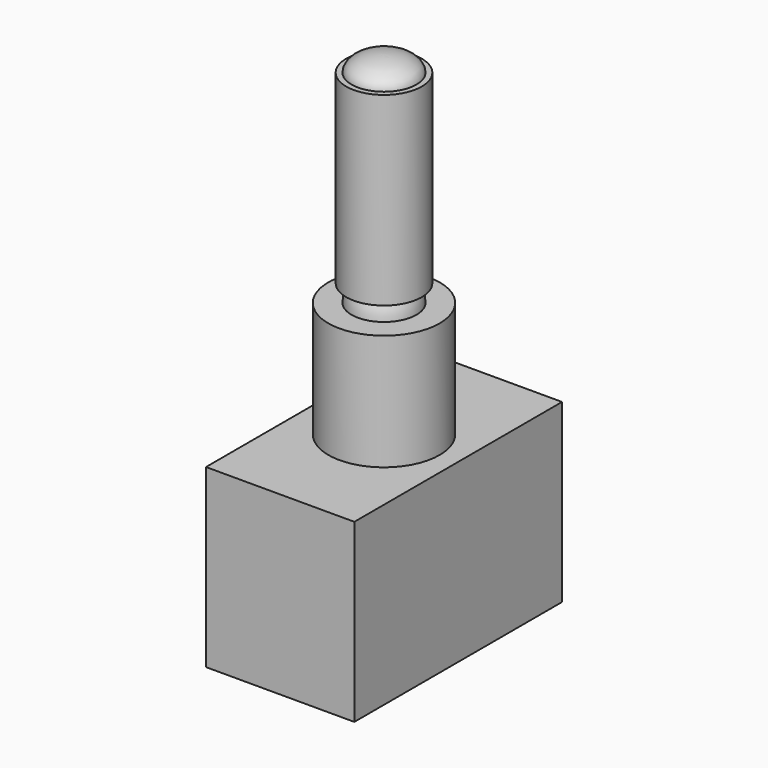
from build123d import *

# Parameters (mm, degrees)
F0_R     = 6
F1_DEPTH = 12.5
F2_W     = 28
F2_H     = 19
F3_DEPTH = 8


with BuildPart() as f1:
    # F0 (on Top) → F1 (new body)
    with BuildSketch(Plane.XY):
        Circle(F0_R)
    extrude(amount=F1_DEPTH)

    # F2 (on Right) → F3 (join, symmetric)
    with BuildSketch(Plane.YZ):
        with Locations((0, -9.5)):
            Rectangle(F2_W, F2_H)
    extrude(amount=F3_DEPTH, both=True)

    # F2 (on Right) → F4 (revolve)
    with BuildSketch(Plane.YZ):
        with BuildLine():
            ThreePointArc((0, 15.9491937459), (1.8805486292, 15.4010638062), (3.1720772546, 13.9283576619))
            Line((3.1720772546, 13.9283576619), (4.0744187722, 14.3593794546))
            Line((4.0744187722, 14.3593794546), (4.0744187722, 34.3593794546))
            Line((4.0744187722, 34.3593794546), (3.5, 34.3593794546))
            add(Edge.make_bspline(
                [(0, 32.6093794546), (3.5, 32.6093794546), (3.5, 34.3593794546)],
                knots=[4.7123889804, 4.7123889804, 4.7123889804, 6.2831853072, 6.2831853072, 6.2831853072], degree=2, weights=[1, 0.7071067812, 1]))
            Line((0, 32.6093794546), (0, 15.9491937459))
        make_face()
        with BuildLine():
            Line((0, 12.4491937459), (3.5, 12.4491937459))
            ThreePointArc((3.5, 12.4491937459), (3.4170360249, 13.2067323946), (3.1720772546, 13.9283576619))
            ThreePointArc((3.1720772546, 13.9283576619), (1.8805486292, 15.4010638062), (0, 15.9491937459))
            Line((0, 15.9491937459), (0, 12.4491937459))
        make_face()
        with BuildLine():
            Line((0, 34.3593794546), (0, 32.6093794546))
            add(Edge.make_bspline(
                [(0, 32.6093794546), (3.5, 32.6093794546), (3.5, 34.3593794546)],
                knots=[4.7123889804, 4.7123889804, 4.7123889804, 6.2831853072, 6.2831853072, 6.2831853072], degree=2, weights=[1, 0.7071067812, 1]))
            Line((3.5, 34.3593794546), (0, 34.3593794546))
        make_face()
        with BuildLine():
            Line((0, 36.1093794546), (0, 34.3593794546))
            Line((0, 34.3593794546), (3.5, 34.3593794546))
            add(Edge.make_bspline(
                [(3.5, 34.3593794546), (3.5, 36.1093794546), (0, 36.1093794546)],
                knots=[0, 0, 0, 1.5707963268, 1.5707963268, 1.5707963268], degree=2, weights=[1, 0.7071067812, 1]))
        make_face()
        with BuildLine():
            ThreePointArc((0, 8.9491937459), (2.4748737342, 9.9743200117), (3.5, 12.4491937459))
            Line((3.5, 12.4491937459), (0, 12.4491937459))
            Line((0, 12.4491937459), (0, 8.9491937459))
        make_face()
    revolve(axis=Axis((0, 0, 25.1542866002), (0, 0, -1)))


solid = f1.part
